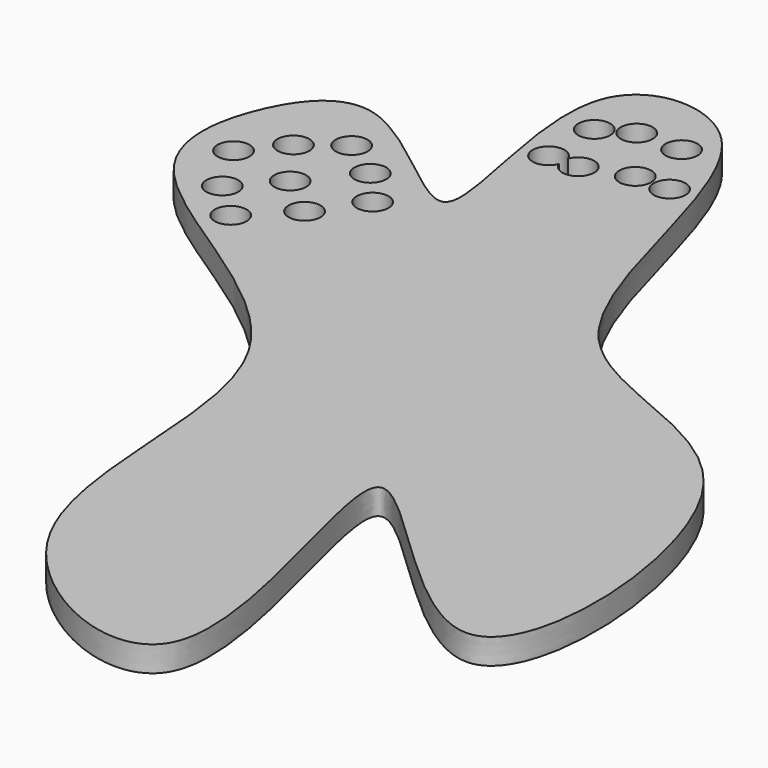
from build123d import *

# Parameters (mm, degrees)
F1_DEPTH = 2.032
F2_D     = 2.54


with BuildPart() as f1:
    # F0 (on Top) → F1 (new body)
    with BuildSketch(Plane.XY):
        with BuildLine():
            add(Edge.make_bspline(
                [(-85.8347937465, -33.2797989249), (-87.9073229655, -37.4781671134), (-108.0862206498, -28.3335950891), (-98.9438393774, 3.1558309957), (-128.3676125306, 13.9618093041), (-127.5063884108, 25.7674891667), (-121.2288602459, 34.1665830552), (-104.2838698503, 15.0272468002), (-115.6728225699, 43.8473534235), (-96.6338585407, 44.1729508046), (-95.9425440551, 9.0816613399), (-68.6280144318, 11.0964251177), (-66.184030143, -35.5323654876), (-97.8850386844, 6.4143575932), (-83.2363588135, -28.0160919228), (-85.8347937465, -33.2797989249)],
                knots=[0, 0, 0, 0, 0.0716467875, 0.168240257, 0.2592439236, 0.3152279935, 0.3639644339, 0.4291899318, 0.5039706822, 0.5581929136, 0.6541996543, 0.7388060978, 0.8280302639, 0.9101727909, 1, 1, 1, 1], degree=3))
        make_face()
    extrude(amount=F1_DEPTH)

    # F2 (through all)
    with Locations(Plane(origin=(0, 0, 0), x_dir=(1, 0, 0), z_dir=(0, 0, -1))):
        with Locations((-118.9408376813, -13.8414343819), (-115.6920567155, -17.1385034919), (-113.1654679775, -20.7511726767), (-121.8184605241, -16.6029576212), (-118.9408376813, -19.7595432401), (-115.6920567155, -23.6831307411), (-118.9408376813, -25.8785467595), (-121.8184605241, -23.6831307411), (-124.2413669825, -20.7511726767), (-108.5173711181, -32.4533432722), (-106.1476692557, -32.4533432722), (-102.5720387697, -33.6516276002), (-99.8360365629, -33.6516276002), (-108.5173711181, -37.0014570653), (-106.1476692557, -38.2657758892), (-102.5720387697, -38.2657758892)):
            Hole(F2_D / 2)


solid = f1.part
